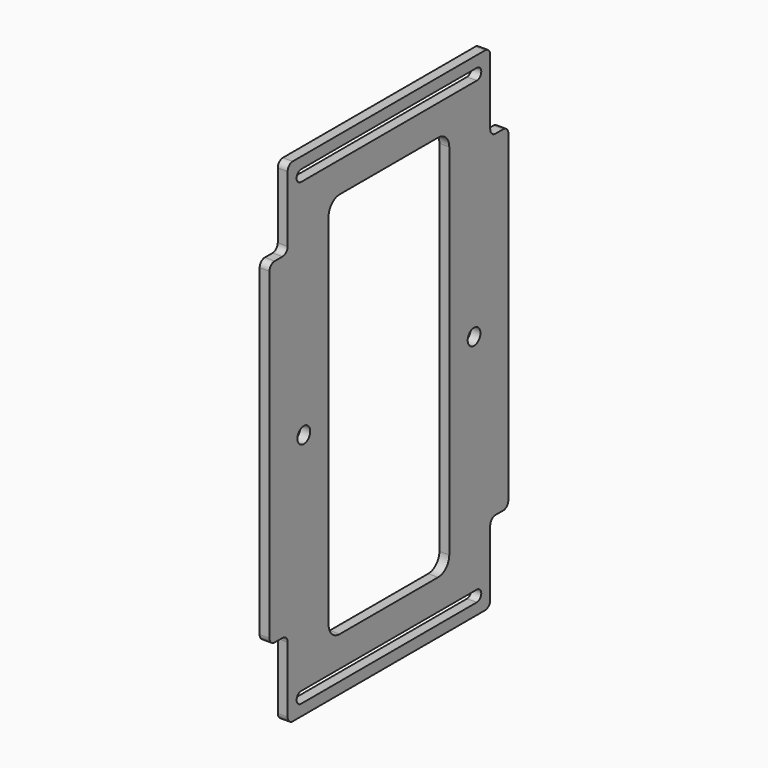
from build123d import *

# Parameters (mm, degrees)
SKETCH_R  = 1.5
PAD_DEPTH = 1.8542


with BuildPart() as part:
    # Sketch (on Face48 of Binder001) → Pad (new body)
    with BuildSketch(Plane.YZ.offset(326.1082)):
        with BuildLine():
            Line((129.0813, -24.706), (127.2271, -24.706))
            ThreePointArc((127.2271, -24.706), (126.378572, -25.057472), (126.0271, -25.906))
            Line((126.0271, -86.594), (126.0271, -25.906))
            ThreePointArc((126.0271, -86.594), (126.378572, -87.442528), (127.2271, -87.794))
            Line((129.0813, -87.794), (127.2271, -87.794))
            ThreePointArc((130.2813, -88.994), (129.929828, -88.145472), (129.0813, -87.794))
            Line((130.2813, -88.994), (130.2813, -101.3746))
            ThreePointArc((130.2813, -101.3746), (130.632772, -102.223128), (131.4813, -102.5746))
            Line((131.4813, -102.5746), (176.6813, -102.5746))
            ThreePointArc((176.6813, -102.5746), (177.529828, -102.223128), (177.8813, -101.3746))
            Line((177.8813, -88.994), (177.8813, -101.3746))
            ThreePointArc((179.0813, -87.794), (178.232772, -88.145472), (177.8813, -88.994))
            Line((180.9355, -87.794), (179.0813, -87.794))
            ThreePointArc((180.9355, -87.794), (181.784028, -87.442528), (182.1355, -86.594))
            Line((182.1355, -25.906), (182.1355, -86.594))
            ThreePointArc((182.1355, -25.906), (181.784028, -25.057472), (180.9355, -24.706))
            Line((179.0813, -24.706), (180.9355, -24.706))
            ThreePointArc((177.8813, -23.506), (178.232772, -24.354528), (179.0813, -24.706))
            Line((177.8813, -11.1254), (177.8813, -23.506))
            ThreePointArc((177.8813, -11.1254), (177.529828, -10.276872), (176.6813, -9.9254))
            Line((131.4813, -9.9254), (176.6813, -9.9254))
            ThreePointArc((131.4813, -9.9254), (130.632772, -10.276872), (130.2813, -11.1254))
            Line((130.2813, -11.1254), (130.2813, -23.506))
            ThreePointArc((129.0813, -24.706), (129.929828, -24.354528), (130.2813, -23.506))
        make_face()
        with Locations((134.0813, -56.25)):
            Circle(SKETCH_R, mode=Mode.SUBTRACT)
        with Locations((174.0813, -56.25)):
            Circle(SKETCH_R, mode=Mode.SUBTRACT)
        with BuildLine():
            Line((139.9043, -22.5), (139.9043, -90))
            ThreePointArc((139.9043, -90), (140.67373, -91.85757), (142.5313, -92.627))
            Line((142.5313, -92.627), (165.6313, -92.627))
            ThreePointArc((165.6313, -92.627), (167.48887, -91.85757), (168.2583, -90))
            Line((168.2583, -90), (168.2583, -22.5))
            ThreePointArc((168.2583, -22.5), (167.48887, -20.64243), (165.6313, -19.873))
            Line((165.6313, -19.873), (142.5313, -19.873))
            ThreePointArc((142.5313, -19.873), (140.67373, -20.64243), (139.9043, -22.5))
        make_face(mode=Mode.SUBTRACT)
        with BuildLine():
            ThreePointArc((133.4436, -12.0336), (132.3895, -13.0877), (133.4436, -14.1418))
            Line((133.4436, -14.1418), (174.719, -14.1418))
            ThreePointArc((174.719, -14.1418), (175.7731, -13.0877), (174.719, -12.0336))
            Line((133.4436, -12.0336), (174.719, -12.0336))
        make_face(mode=Mode.SUBTRACT)
        with BuildLine():
            ThreePointArc((133.4436, -98.3582), (132.3895, -99.4123), (133.4436, -100.4664))
            Line((133.4436, -100.4664), (174.719, -100.4664))
            ThreePointArc((174.719, -100.4664), (175.7731, -99.4123), (174.719, -98.3582))
            Line((133.4436, -98.3582), (174.719, -98.3582))
        make_face(mode=Mode.SUBTRACT)
    extrude(amount=PAD_DEPTH)


solid = part.part
